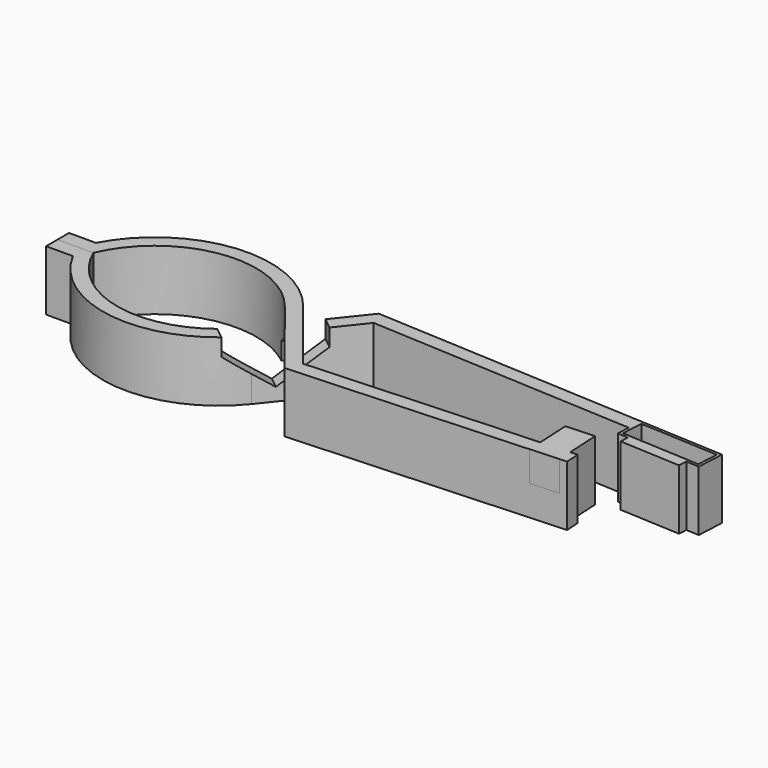
from build123d import *

# Parameters (mm, degrees)
F1_DEPTH       = 4.2
F1_DEPTH_BACK  = 4.2
F3_DEPTH       = 2.3899539343
F8_DEPTH       = 4.201
F8_DEPTH_BACK  = 4.201
F10_DEPTH      = 4.2
F10_DEPTH_BACK = 4.2


with BuildPart() as f1:
    # F0 (on Top) → F1 (new body, two sides)
    with BuildSketch(Plane.XY) as f1_sk:
        with BuildLine():
            Line((-10.8792186327, -2), (-7.1365965526, -2))
            ThreePointArc((-7.1365965526, -2), (5.646501714, -10.5104124957), (19.7761137083, -4.4947008144))
            Line((19.7761137083, -4.4947008144), (28.275484559, 6.1598713066))
            Line((28.275484559, 6.1598713066), (65.3962421786, 4.2144548345))
            Line((65.3962421786, 4.2144548345), (65.3020374574, 2.4169216719))
            Line((65.3020374574, 2.4169216719), (66.7891790661, 2.3389838827))
            Line((66.7891790661, 2.3389838827), (66.7263759186, 1.140628441))
            Line((66.7263759186, 1.140628441), (75.2147269641, 0.6957728129))
            Line((75.2147269641, 0.6957728129), (75.2775301115, 1.8941282546))
            Line((75.2775301115, 1.8941282546), (77.0858659675, 1.7993573882))
            Line((77.0858659675, 1.7993573882), (77.2847426012, 5.5941496203))
            Line((77.2847426012, 5.5941496203), (27.3532658635, 8.2109474325))
            Line((27.3532658635, 8.2109474325), (18.2126391118, -3.2474850407))
            ThreePointArc((18.2126391118, -3.2474850407), (5.246227801, -8.452452026), (-5.8792186327, 0))
            Line((-5.8792186327, 0), (-10.8792186327, 0))
            Line((-10.8792186327, 0), (-10.8792186327, -2))
        make_face()
        Polygon((65.7224236538, 2.7954391033), (65.8794315225, 5.7913277076), (76.8643564048, 5.2156321889), (76.7073485361, 2.2197435846), align=None, mode=Mode.SUBTRACT)
    extrude(amount=F1_DEPTH)
    extrude(f1_sk.sketch, amount=-F1_DEPTH_BACK)

    # F2 (on face) → F3 (cut, through all)
    with BuildSketch(Plane(origin=(14.2765998113, -11.3887366761, 0), x_dir=(0.6236078868, 0.7817372982, 0), z_dir=(0.7817372982, -0.6236078868, 0))):
        Polygon((17.5221264362, 4.2), (5.5221264362, 4.2), (5.5221264362, 1.8), (11.5221264362, -2.4012452293), (17.5221264362, 1.8), align=None)
    extrude(amount=-F3_DEPTH, mode=Mode.SUBTRACT)


with BuildPart() as f4_1:
    # F4: instance of F1
    add(f1.part.mirror(Plane.XY))


with BuildPart() as f5_1:
    # F5: instance of F4_1
    add(f4_1.part.mirror(Plane.XZ))

    # F7 (on Top) → F8 (cut, two sides)
    with BuildSketch(Plane.XY) as f8_sk:
        Polygon((80.845810473, 0), (64.7967691847, 0), (65.4192110984, -10.977292532), (80.845810473, -9.1759832576), align=None)
    extrude(amount=-F8_DEPTH, mode=Mode.SUBTRACT)
    extrude(f8_sk.sketch, amount=F8_DEPTH_BACK, mode=Mode.SUBTRACT)

    # F9 (on Top) → F10 (join, two sides)
    with BuildSketch(Plane.XY) as f10_sk:
        Polygon((63.7832002076, 0.3717972424), (59.7886820686, 0.1624534174), (60.1374691283, -6.4928001438), (64.1319872673, -6.2834563188), align=None)
    extrude(amount=F10_DEPTH)
    extrude(f10_sk.sketch, amount=-F10_DEPTH_BACK)


solid = Compound([f1.part, f5_1.part])
